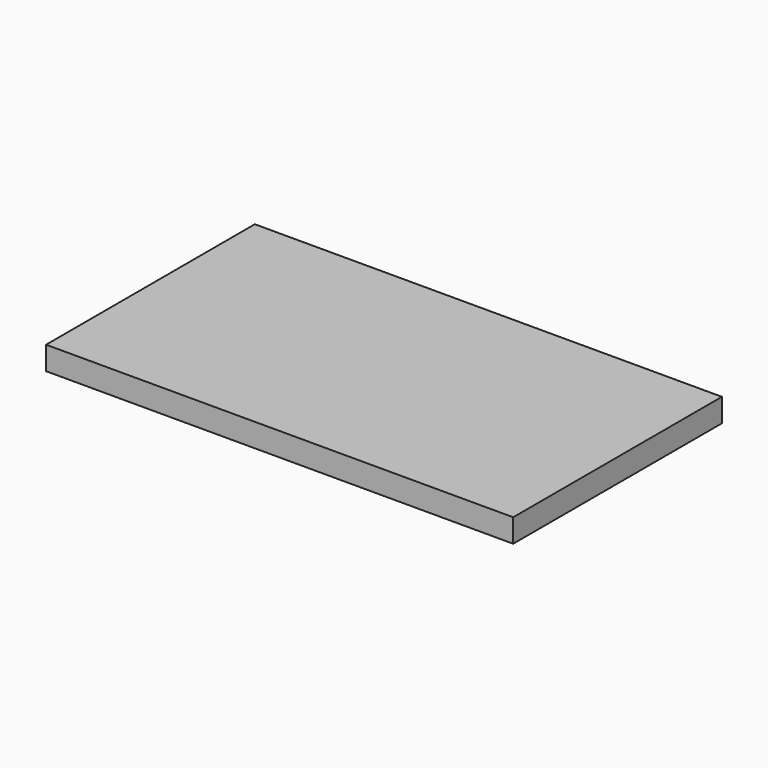
from build123d import *

# Parameters (mm, degrees)
F0_W     = 508
F0_H     = 283.723397
F1_DEPTH = 25.4
F2_R     = 6.35
F3_DEPTH = 25.4


with BuildPart() as f1:
    # F0 (on Top) → F1 (new body)
    with BuildSketch(Plane.XY):
        with Locations((8.641679, 1.936924)):
            Rectangle(F0_W, F0_H)
    extrude(amount=F1_DEPTH)

    # F2 (on face) → F3 (join)
    with BuildSketch(Plane(origin=(0, 0, 0), x_dir=(1, 0, 0), z_dir=(0, 0, -1))):
        with Locations((-41.285435, 0)):
            Circle(F2_R)
        with Locations((98.414565, 0)):
            Circle(F2_R)
    extrude(amount=F3_DEPTH)


solid = f1.part
